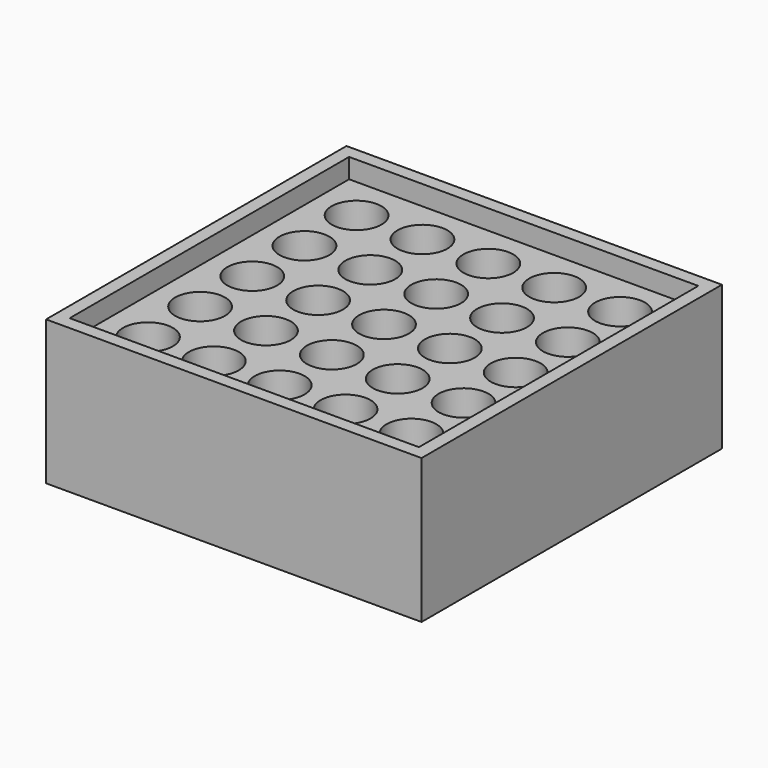
from build123d import *

# Parameters (mm, degrees)
SKETCH_W          = 53.23309
SKETCH_H          = 53.233089
PAD_DEPTH         = 19
SKETCH001_R       = 3.8
POCKET_DEPTH      = 2.001
POCKET_DEPTH_BACK = -17.001
SKETCH002_W       = 57.23309
SKETCH002_H       = 57.233089
SKETCH002_W_2     = 53.23309
SKETCH002_H_2     = 53.233089
PAD001_DEPTH      = 22


with BuildPart() as part:
    # Sketch → Pad (new body)
    with BuildSketch(Plane.XY):
        with Locations((-20.099382, 19.900122)):
            Rectangle(SKETCH_W, SKETCH_H)
    extrude(amount=PAD_DEPTH)

    # Sketch001 (on Sketch) → Pocket (cut, two sides)
    with BuildSketch(Plane.XY.offset(2)) as pocket_sk:
        Circle(SKETCH001_R)
        with Locations((-9.999876, -0.049815)):
            Circle(SKETCH001_R)
        with Locations((-19.999752, -0.09963)):
            Circle(SKETCH001_R)
        with Locations((-29.999628, -0.149445)):
            Circle(SKETCH001_R)
        with Locations((-39.999504, -0.19926)):
            Circle(SKETCH001_R)
        with Locations((-0.049815, 9.999876)):
            Circle(SKETCH001_R)
        with Locations((-10.049691, 9.950061)):
            Circle(SKETCH001_R)
        with Locations((-20.049567, 9.900246)):
            Circle(SKETCH001_R)
        with Locations((-30.049443, 9.850431)):
            Circle(SKETCH001_R)
        with Locations((-40.049319, 9.800616)):
            Circle(SKETCH001_R)
        with Locations((-0.09963, 19.999752)):
            Circle(SKETCH001_R)
        with Locations((-10.099506, 19.949937)):
            Circle(SKETCH001_R)
        with Locations((-20.099382, 19.900122)):
            Circle(SKETCH001_R)
        with Locations((-30.099258, 19.850307)):
            Circle(SKETCH001_R)
        with Locations((-40.099134, 19.800492)):
            Circle(SKETCH001_R)
        with Locations((-0.149445, 29.999628)):
            Circle(SKETCH001_R)
        with Locations((-10.149321, 29.949813)):
            Circle(SKETCH001_R)
        with Locations((-20.149197, 29.899998)):
            Circle(SKETCH001_R)
        with Locations((-30.149073, 29.850183)):
            Circle(SKETCH001_R)
        with Locations((-40.148949, 29.800368)):
            Circle(SKETCH001_R)
        with Locations((-0.19926, 39.999504)):
            Circle(SKETCH001_R)
        with Locations((-10.199136, 39.949689)):
            Circle(SKETCH001_R)
        with Locations((-20.199012, 39.899874)):
            Circle(SKETCH001_R)
        with Locations((-30.198888, 39.850059)):
            Circle(SKETCH001_R)
        with Locations((-40.198764, 39.800244)):
            Circle(SKETCH001_R)
    extrude(amount=-POCKET_DEPTH, mode=Mode.SUBTRACT)
    extrude(pocket_sk.sketch, amount=-POCKET_DEPTH_BACK, mode=Mode.SUBTRACT)

    # Sketch002 → Pad001 (join)
    with BuildSketch(Plane.XY):
        with Locations((-20.099382, 19.900122)):
            Rectangle(SKETCH002_W, SKETCH002_H)
        with Locations((-20.099382, 19.900122)):
            Rectangle(SKETCH002_W_2, SKETCH002_H_2, mode=Mode.SUBTRACT)
    extrude(amount=PAD001_DEPTH)


solid = part.part
